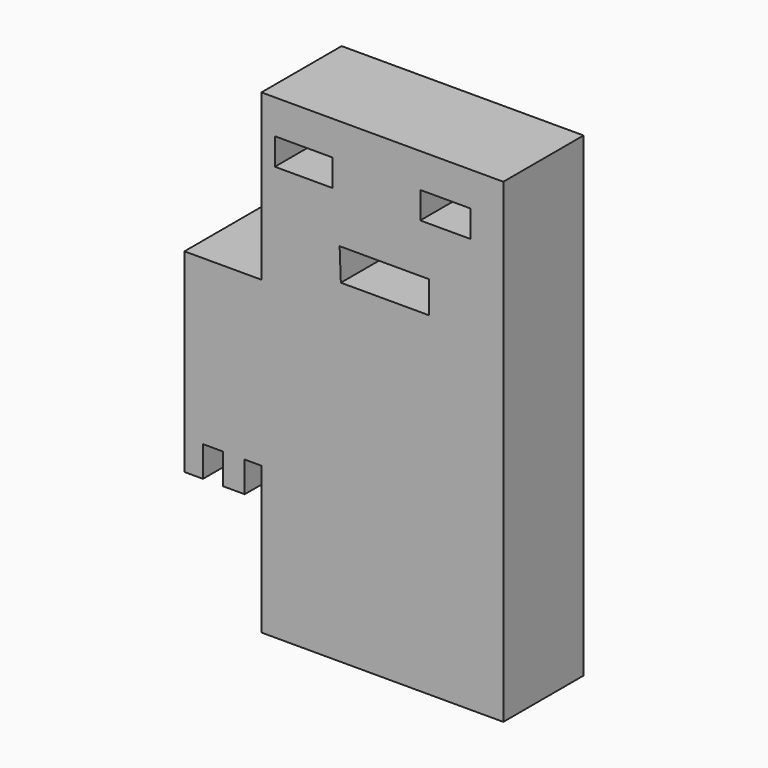
from build123d import *

# Parameters (mm, degrees)
F0_W     = 31.5706767142
F0_H     = 27.2374488413
F0_H_2   = 9.9748745561
F0_W_2   = 61.2842533737
F0_H_3   = 41.7847204953
F0_W_3   = 14.5472735167
F0_H_4   = 6.8093631417
F0_W_4   = 12.6901743934
F0_W_5   = 4.7026574612
F0_H_5   = 7.7468082309
F0_W_6   = 5.5220406502
F1_DEPTH = 25.4


with BuildPart() as f1:
    # F0 (on Front) → F1 (new body)
    with BuildSketch(Plane.XZ):
        Polygon((29.7135766596, -38.2252819836), (29.7135766596, 3.2499227673), (-31.5706767142, 3.2499227673), (-31.5706767142, -38.2252819836), (0, -38.2252819836), align=None)
        Polygon((29.7135766596, -38.2252819836), (29.7135766596, 3.2499227673), (-31.5706767142, 3.2499227673), (-31.5706767142, -38.2252819836), (0, -38.2252819836), align=None)
        Polygon((-31.5706767142, -38.2252819836), (-31.5706767142, 3.2499227673), (-51.0702133179, 3.2499227673), (-51.0702133179, -38.2252819836), (-46.3675558567, -38.2252819836), (-41.320445016, -38.2252819836), (-35.7984043658, -38.2252819836), align=None)
        Polygon((29.7135766596, -65.4627308249), (29.7135766596, -38.2252819836), (0, -38.2252819836), (0, -65.4627308249), (2.1666167304, -65.4627308249), align=None)
        with Locations((-15.7853383571, -51.8440064043)):
            Rectangle(F0_W, F0_H)
        Polygon((29.7135766596, -75.437605381), (29.7135766596, -65.4627308249), (2.1666167304, -65.4627308249), (0, -65.4627308249), (0, -75.437605381), align=None)
        with Locations((-15.7853383571, -70.450168103)):
            Rectangle(F0_W, F0_H_2)
        with Locations((-0.9285500273, 24.142283015)):
            Rectangle(F0_W_2, F0_H_3)
        with Locations((-20.8923593163, 32.9635022208)):
            Rectangle(F0_W_3, F0_H_4, mode=Mode.SUBTRACT)
        Polygon((-11.4521086216, 9.1307349503), (-11.761624366, 17.1781629324), (-7.1188774891, 17.1781629324), (-3.7141975481, 17.1781629324), (0, 17.1781629324), (5.2617802285, 17.1781629324), (10.8330752701, 17.1781629324), (10.8330752701, 9.1307349503), (5.2617802285, 9.1307349503), (0, 9.1307349503), (-3.7141975481, 9.1307349503), (-7.1188774891, 9.1307349503), align=None, mode=Mode.SUBTRACT)
        with Locations((15.011547599, 32.9635022208)):
            Rectangle(F0_W_4, F0_H_4, mode=Mode.SUBTRACT)
        with Locations((-48.7188845873, -42.0986860991)):
            Rectangle(F0_W_5, F0_H_5)
        with Locations((-38.5594246909, -42.0986860991)):
            Rectangle(F0_W_6, F0_H_5)
    extrude(amount=F1_DEPTH)


solid = f1.part
